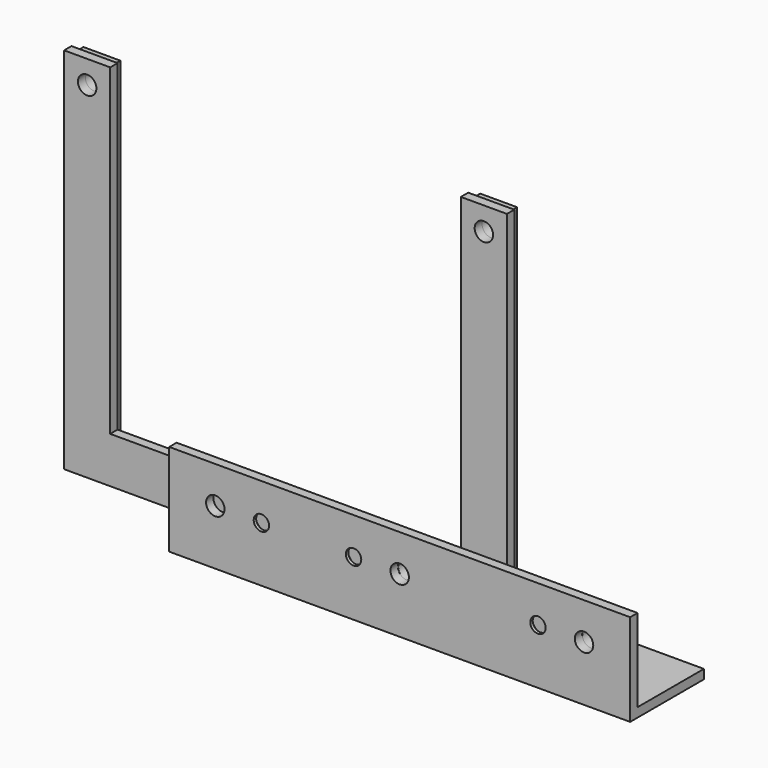
from build123d import *

# Parameters (mm, degrees)
F1_DEPTH = 150
F2_R     = 3
F2_R_2   = 2.5
F3_DEPTH = 12.5
F4_SIZE  = 2
F5_R     = 3
F6_DEPTH = 3
F5_R_2   = 2.89125585
F7_W     = 12
F7_H     = 120
F7_R     = 3
F7_R_2   = 3.0463073606
F8_DEPTH = 3
F7_R_3   = 3.0195859369


with BuildPart() as f1:
    # F0 (on Right) → F1 (new body)
    with BuildSketch(Plane.YZ):
        Polygon((-3, 30), (-6, 30), (-6, 0), (24, 0), (24, 3), (-3, 3), align=None)
    extrude(amount=F1_DEPTH)

    # F2 (on Front) → F3 (cut, symmetric)
    with BuildSketch(Plane.XZ):
        with Locations((135, 18)):
            Circle(F2_R)
        with Locations((75.0012089281, 18)):
            Circle(F2_R)
        with Locations((15, 18)):
            Circle(F2_R)
        with Locations((120, 18)):
            Circle(F2_R_2)
        with Locations((30, 18)):
            Circle(F2_R_2)
        with Locations((60.0012089281, 18)):
            Circle(F2_R_2)
    extrude(amount=F3_DEPTH, both=True, mode=Mode.SUBTRACT)

    # F4
    f4_edges = [f1.edges().sort_by_distance(p)[0] for p in [
        (57.501209, -3, 18),
        (27.5, -3, 18),
        (117.5, -3, 18),
    ]]
    chamfer(f4_edges, length=F4_SIZE)


with BuildPart() as f6:
    # F5 (on Front) → F6 (new body)
    with BuildSketch(Plane.XZ):
        Polygon((142.5, 10.5), (142.5, 25.5), (107.5, 25.5), (107.5, 130.5), (92.5, 130.5), (92.5, 10.5), align=None)
        with Locations((135.0290626287, 17.9174412042)):
            Circle(F5_R, mode=Mode.SUBTRACT)
        with Locations((100, 123)):
            Circle(F5_R, mode=Mode.SUBTRACT)
    extrude(amount=F6_DEPTH)


with BuildPart() as f6b:
    # F5 (on Front) → F6, piece 2 (new body)
    with BuildSketch(Plane.XZ):
        Polygon((82.5012089281, 10.5), (82.5012089281, 25.5), (-21.6020338073, 25.5), (-21.6020338073, 130.5), (-36.6020338073, 130.5), (-36.6020338073, 10.5), align=None)
        with Locations((75.0117748976, 17.8705621511)):
            Circle(F5_R_2, mode=Mode.SUBTRACT)
        with Locations((-29.1020338073, 123)):
            Circle(F5_R, mode=Mode.SUBTRACT)
    extrude(amount=F6_DEPTH)


with BuildPart() as f8:
    # F7 (on Front) → F8 (new body)
    with BuildSketch(Plane.XZ):
        with Locations((100, 69.5)):
            Rectangle(F7_W, F7_H)
        with Locations((100, 15.5)):
            Circle(F7_R, mode=Mode.SUBTRACT)
        with Locations((100, 123)):
            Circle(F7_R_2, mode=Mode.SUBTRACT)
    extrude(amount=-F8_DEPTH)


with BuildPart() as f8b:
    # F7 (on Front) → F8, piece 2 (new body)
    with BuildSketch(Plane.XZ):
        with Locations((-29.1020338073, 69.5)):
            Rectangle(F7_W, F7_H)
        with Locations((-29.1020338073, 15.5)):
            Circle(F7_R, mode=Mode.SUBTRACT)
        with Locations((-29.1020338073, 123)):
            Circle(F7_R_3, mode=Mode.SUBTRACT)
    extrude(amount=-F8_DEPTH)


solid = Compound([f1.part, f6.part, f6b.part, f8.part, f8b.part])
